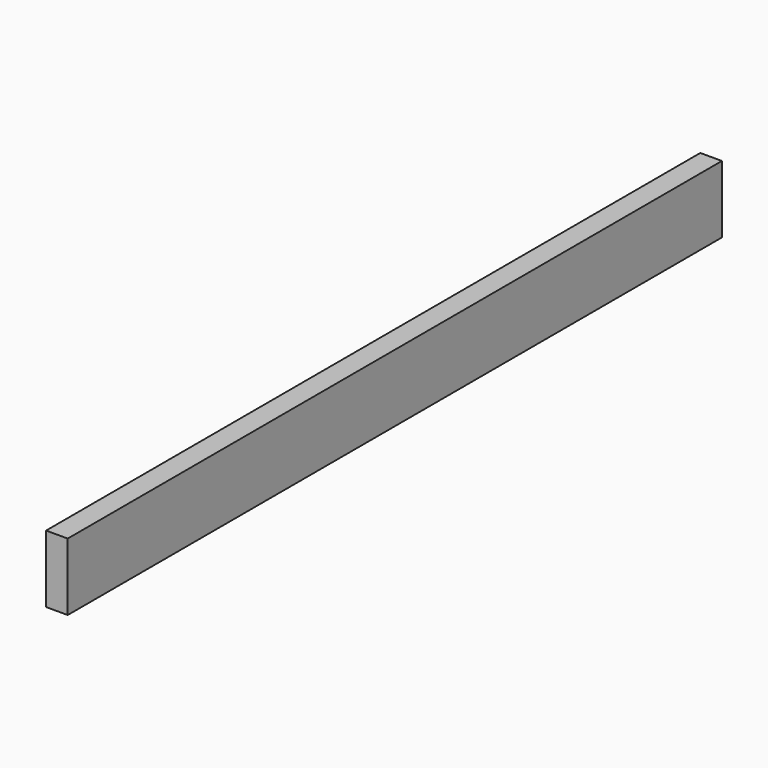
from build123d import *

# Parameters (mm, degrees)
F0_W          = 28.575
F0_H          = 88.9
F1_DEPTH      = 304.8
F1_DEPTH_BACK = 774.7


with BuildPart() as f1:
    # F0 (on Front) → F1 (new body, two sides)
    with BuildSketch(Plane.XZ) as f1_sk:
        Rectangle(F0_W, F0_H)
    extrude(amount=-F1_DEPTH)
    extrude(f1_sk.sketch, amount=F1_DEPTH_BACK)


solid = f1.part
